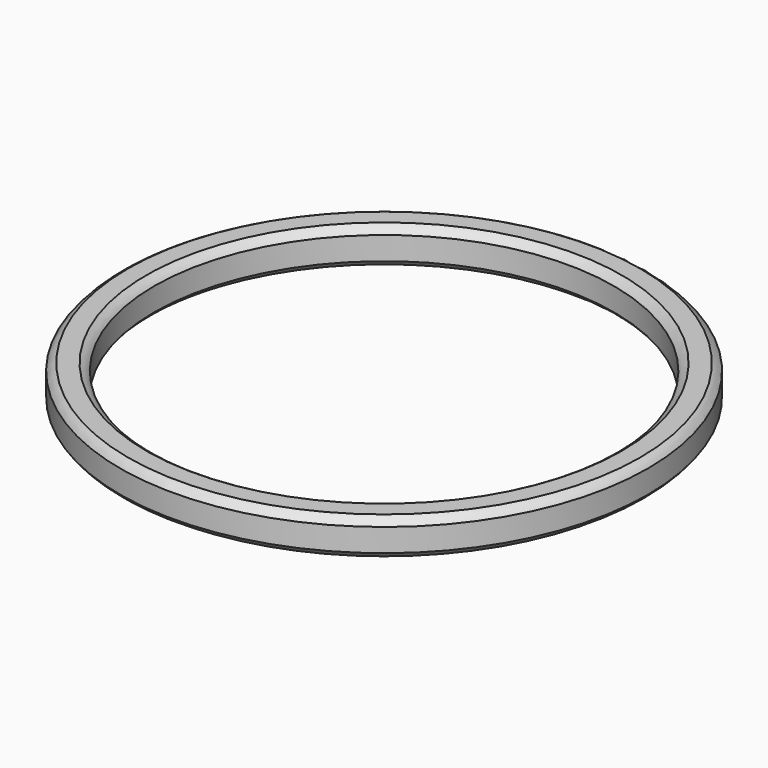
from build123d import *


with BuildPart() as f1:
    # F0 (on Front) → F1 (revolve)
    with BuildSketch(Plane.XZ):
        with BuildLine():
            Line((320.7144141197, -13.9968942154), (320.7144141197, 13.9968942154))
            ThreePointArc((320.7144141197, 13.9968942154), (316.4301330495, 18.842789814), (311.046011816, 22.4273409694))
            Line((311.046011816, 22.4273409694), (288.9539881839, 22.4273409694))
            ThreePointArc((288.9539881839, 22.4273409694), (283.5698669505, 18.842789814), (279.2855858803, 13.9968942154))
            Line((279.2855858803, 13.9968942154), (279.2855858803, -13.9968942154))
            ThreePointArc((279.2855858803, -13.9968942154), (283.5698669505, -18.842789814), (288.9539881839, -22.4273409694))
            Line((288.9539881839, -22.4273409694), (311.046011816, -22.4273409694))
            ThreePointArc((311.046011816, -22.4273409694), (316.4301330495, -18.842789814), (320.7144141197, -13.9968942154))
        make_face()
    revolve(axis=Axis((0, 0, -3.2569244504), (0, 0, -1)))


solid = f1.part
